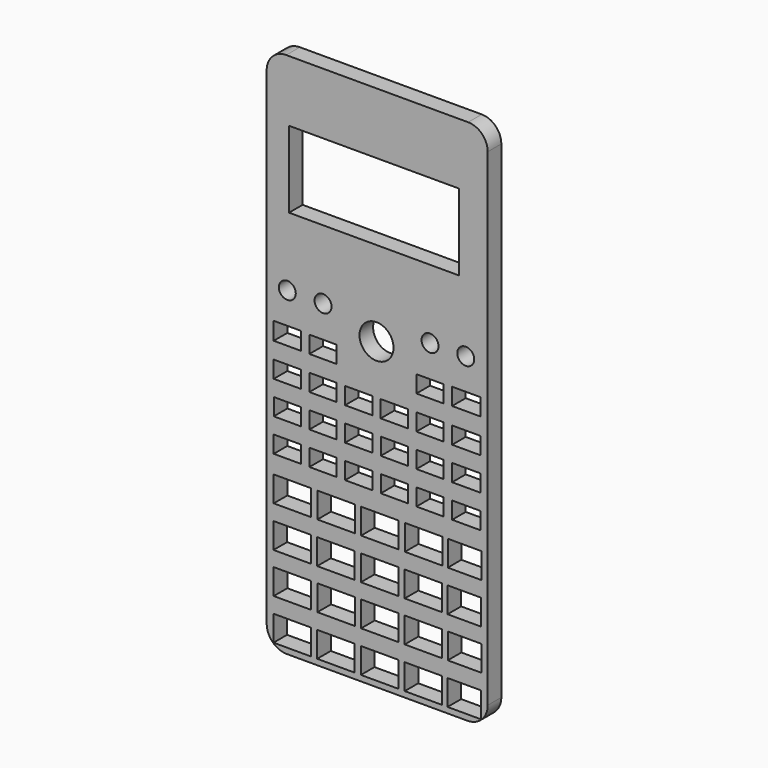
from build123d import *

# Parameters (mm, degrees)
F0_W     = 10.9982
F0_H     = 7.493
F0_W_2   = 8.001
F0_H_2   = 5.0038
F0_R     = 2.4892
F0_R_2   = 5.0038
F1_DEPTH = 5
F0_W_3   = 50
F0_H_3   = 22.5
F2_DEPTH = 5


with BuildPart() as f1:
    # F0 (on Front) → F1 (new body)
    with BuildSketch(Plane.XZ):
        with BuildLine():
            Line((32.930795, 54.273571), (-32.067805, 54.273571))
            Line((-32.067805, 54.273571), (-32.067805, -39.597668))
            ThreePointArc((-32.067805, -39.597668), (-30.322229, -43.811862), (-26.108036, -45.557438))
            Line((-26.108036, -45.557438), (26.971026, -45.557438))
            ThreePointArc((26.971026, -45.557438), (31.185219, -43.811862), (32.930795, -39.597668))
            Line((32.930795, -39.597668), (32.930795, 54.273571))
        make_face()
        Polygon((-24.558977, -43.883898), (-30.058077, -43.883898), (-30.058077, -36.390898), (-19.059877, -36.390898), (-19.059877, -43.883898), align=None, mode=Mode.SUBTRACT)
        Polygon((-24.497674, -31.799856), (-29.996774, -31.799856), (-29.996774, -24.306856), (-18.998574, -24.306856), (-18.998574, -31.799856), align=None, mode=Mode.SUBTRACT)
        Polygon((-24.558977, -19.887637), (-30.058077, -19.887637), (-30.058077, -12.394637), (-19.059877, -12.394637), (-19.059877, -19.887637), align=None, mode=Mode.SUBTRACT)
        Polygon((-11.717032, -43.883901), (-17.216132, -43.883901), (-17.216132, -36.390901), (-6.217932, -36.390901), (-6.217932, -43.883901), align=None, mode=Mode.SUBTRACT)
        Polygon((-11.655728, -31.799859), (-17.154828, -31.799859), (-17.154828, -24.306859), (-6.156628, -24.306859), (-6.156628, -31.799859), align=None, mode=Mode.SUBTRACT)
        Polygon((-11.717032, -19.887639), (-17.216132, -19.887639), (-17.216132, -12.394639), (-6.217932, -12.394639), (-6.217932, -19.887639), align=None, mode=Mode.SUBTRACT)
        Polygon((-24.497674, -7.803595), (-29.996774, -7.803595), (-29.996774, -0.310595), (-18.998574, -0.310595), (-18.998574, -7.803595), align=None, mode=Mode.SUBTRACT)
        Polygon((-27.643991, 5.020094), (-29.990563, 5.020094), (-29.990563, 10.023894), (-21.989563, 10.023894), (-21.989563, 5.020094), align=None, mode=Mode.SUBTRACT)
        Polygon((-26.28431, 14.722894), (-29.987015, 14.722894), (-29.987015, 19.726694), (-21.987015, 19.726694), (-21.987015, 14.722894), align=None, mode=Mode.SUBTRACT)
        Polygon((-25.983574, 24.419945), (-29.996774, 24.419945), (-29.996774, 29.423745), (-21.995774, 29.423745), (-21.995774, 24.419945), align=None, mode=Mode.SUBTRACT)
        Polygon((-11.655728, -7.803598), (-17.154828, -7.803598), (-17.154828, -0.310598), (-6.156628, -0.310598), (-6.156628, -7.803598), align=None, mode=Mode.SUBTRACT)
        Polygon((-17.148439, 5.016294), (-19.500365, 5.016294), (-19.500365, 10.020094), (-11.499365, 10.020094), (-11.499365, 5.016294), align=None, mode=Mode.SUBTRACT)
        Polygon((-7.183166, 5.020094), (-9.010165, 5.020094), (-9.010165, 10.020094), (-1.009165, 10.020094), (-1.009165, 5.020094), align=None, mode=Mode.SUBTRACT)
        Polygon((-15.484615, 14.722894), (-19.497815, 14.722894), (-19.497815, 19.726694), (-11.496815, 19.726694), (-11.496815, 14.722894), align=None, mode=Mode.SUBTRACT)
        Polygon((-15.493374, 24.419945), (-19.506574, 24.419945), (-19.506574, 29.423745), (-11.505574, 29.423745), (-11.505574, 24.419945), align=None, mode=Mode.SUBTRACT)
        Polygon((-5.823485, 14.722894), (-9.007615, 14.722894), (-9.007615, 19.726694), (-1.006615, 19.726694), (-1.006615, 14.722894), align=None, mode=Mode.SUBTRACT)
        Polygon((-5.52275, 24.419945), (-9.016374, 24.419945), (-9.016374, 29.423745), (-1.015374, 29.423745), (-1.015374, 24.419945), align=None, mode=Mode.SUBTRACT)
        Polygon((1.135368, -43.883901), (-4.363732, -43.883901), (-4.363732, -36.390901), (6.634468, -36.390901), (6.634468, -43.883901), align=None, mode=Mode.SUBTRACT)
        Polygon((1.196672, -31.799859), (-4.302428, -31.799859), (-4.302428, -24.306859), (6.695772, -24.306859), (6.695772, -31.799859), align=None, mode=Mode.SUBTRACT)
        Polygon((14.020374, -43.883901), (8.521274, -43.883901), (8.521274, -36.390901), (19.519474, -36.390901), (19.519474, -43.883901), align=None, mode=Mode.SUBTRACT)
        with Locations((14.020374, -28.053359)):
            Rectangle(F0_W, F0_H, mode=Mode.SUBTRACT)
        Polygon((1.135368, -19.887639), (-4.363732, -19.887639), (-4.363732, -12.394639), (6.634468, -12.394639), (6.634468, -19.887639), align=None, mode=Mode.SUBTRACT)
        Polygon((14.020374, -19.887639), (8.521274, -19.887639), (8.521274, -12.394639), (19.519474, -12.394639), (19.519474, -19.887639), align=None, mode=Mode.SUBTRACT)
        Polygon((25.782729, -43.883901), (21.115824, -43.883901), (21.115824, -36.390901), (31.015452, -36.390901), (31.015452, -43.883901), align=None, mode=Mode.SUBTRACT)
        Polygon((25.844033, -31.799859), (21.177127, -31.799859), (21.177127, -24.306859), (31.076756, -24.306859), (31.076756, -31.799859), align=None, mode=Mode.SUBTRACT)
        Polygon((25.782729, -19.887639), (21.115824, -19.887639), (21.115824, -12.394639), (31.015452, -12.394639), (31.015452, -19.887639), align=None, mode=Mode.SUBTRACT)
        Polygon((1.196672, -7.803598), (-4.302428, -7.803598), (-4.302428, -0.310598), (6.695772, -0.310598), (6.695772, -7.803598), align=None, mode=Mode.SUBTRACT)
        with Locations((5.480535, 7.521994)):
            Rectangle(F0_W_2, F0_H_2, mode=Mode.SUBTRACT)
        Polygon((14.081677, -7.803598), (8.582577, -7.803598), (8.582577, -0.310598), (19.580777, -0.310598), (19.580777, -7.803598), align=None, mode=Mode.SUBTRACT)
        Polygon((12.818122, 5.020094), (11.970235, 5.020094), (11.970235, 10.006707), (19.971235, 10.006707), (19.971235, 5.020094), align=None, mode=Mode.SUBTRACT)
        with Locations((5.483085, 17.224794)):
            Rectangle(F0_W_2, F0_H_2, mode=Mode.SUBTRACT)
        Polygon((9.474826, 24.419945), (1.473826, 24.419945), (1.473826, 29.423745), (9.474826, 29.423745), (9.474826, 26.934545), align=None, mode=Mode.SUBTRACT)
        Polygon((14.177803, 14.722894), (11.972785, 14.722894), (11.972785, 19.726694), (19.972785, 19.726694), (19.972785, 14.722894), align=None, mode=Mode.SUBTRACT)
        Polygon((14.478539, 24.419945), (11.964026, 24.419945), (11.964026, 29.423745), (19.965026, 29.423745), (19.965026, 24.419945), align=None, mode=Mode.SUBTRACT)
        Polygon((25.844033, -7.803598), (21.177127, -7.803598), (21.177127, -0.310598), (31.076756, -0.310598), (31.076756, -7.803598), align=None, mode=Mode.SUBTRACT)
        Polygon((24.846989, 5.002907), (22.460435, 5.002907), (22.460435, 10.006707), (30.797195, 10.006707), (30.797195, 5.002907), align=None, mode=Mode.SUBTRACT)
        Polygon((26.16669, 14.722894), (22.461985, 14.722894), (22.461985, 19.726694), (30.801985, 19.726694), (30.801985, 14.722894), align=None, mode=Mode.SUBTRACT)
        Polygon((26.467426, 24.419945), (22.454226, 24.419945), (22.454226, 29.423745), (30.796636, 29.423745), (30.796636, 24.419945), align=None, mode=Mode.SUBTRACT)
        Polygon((-25.983574, 34.27997), (-29.996351, 34.27997), (-29.996351, 39.453434), (-21.995774, 39.453434), (-21.995774, 34.27997), align=None, mode=Mode.SUBTRACT)
        with Locations((-25.996883, 48.632245)):
            Circle(F0_R, mode=Mode.SUBTRACT)
        Polygon((-15.493374, 34.279969), (-19.506574, 34.279969), (-19.506574, 39.283769), (-11.505574, 39.283769), (-11.505574, 34.279969), align=None, mode=Mode.SUBTRACT)
        with Locations((-15.493563, 48.632245)):
            Circle(F0_R, mode=Mode.SUBTRACT)
        with Locations((0.229226, 43.927145)):
            Circle(F0_R_2, mode=Mode.SUBTRACT)
        Polygon((14.478539, 34.27997), (11.964026, 34.27997), (11.964026, 39.28377), (19.965026, 39.28377), (19.965026, 34.27997), (15.964526, 34.27997), align=None, mode=Mode.SUBTRACT)
        with Locations((15.964526, 48.632245)):
            Circle(F0_R, mode=Mode.SUBTRACT)
        Polygon((26.467426, 34.449634), (22.454226, 34.449634), (22.454226, 39.453434), (30.796636, 39.453434), (30.796636, 34.449634), align=None, mode=Mode.SUBTRACT)
        with Locations((26.467426, 48.632245)):
            Circle(F0_R, mode=Mode.SUBTRACT)
    extrude(amount=F1_DEPTH)

    # F0 (on Front) → F2 (join)
    with BuildSketch(Plane.XZ):
        with BuildLine():
            Line((-32.067805, 103.682429), (-32.067805, 54.273571))
            Line((-32.067805, 54.273571), (32.930795, 54.273571))
            Line((32.930795, 54.273571), (32.930795, 103.682429))
            ThreePointArc((32.930795, 103.682429), (31.243691, 107.755458), (27.170661, 109.442562))
            Line((27.170661, 109.442562), (-26.307672, 109.442562))
            ThreePointArc((-26.307672, 109.442562), (-30.380701, 107.755458), (-32.067805, 103.682429))
        make_face()
        with Locations((-0.495507, 80.151956)):
            Rectangle(F0_W_3, F0_H_3, mode=Mode.SUBTRACT)
    extrude(amount=F2_DEPTH)


solid = f1.part
